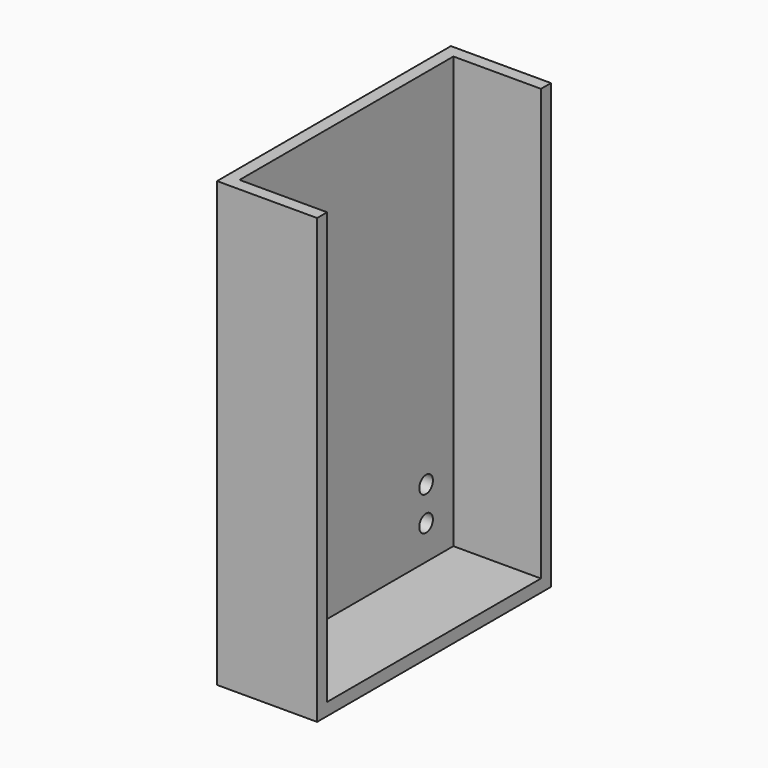
from build123d import *

# Parameters (mm, degrees)
CYLINDER026_R     = 1.5
CYLINDER026_DEPTH = 10
CYLINDER025_R     = 1.5
CYLINDER025_DEPTH = 10
CYLINDER024_R     = 1.5
CYLINDER024_DEPTH = 10
CYLINDER027_R     = 1.5
CYLINDER027_DEPTH = 10
BOX022_W          = 15.4
BOX022_H          = 47
BOX022_DEPTH      = 75.8
BOX021_W          = 17.6
BOX021_H          = 51.4
BOX021_DEPTH      = 78


with BuildPart() as obj1:
    # Cylinder026 → Cylinder026 (new body)
    with BuildSketch(Plane(origin=(50, 64.5, 56), x_dir=(0, 0, -1), z_dir=(1, 0, 0))):
        Circle(CYLINDER026_R)
    extrude(amount=CYLINDER026_DEPTH)


with BuildPart() as obj2:
    # Cylinder025 → Cylinder025 (new body)
    with BuildSketch(Plane(origin=(50, 29.5, 50), x_dir=(0, 0, -1), z_dir=(1, 0, 0))):
        Circle(CYLINDER025_R)
    extrude(amount=CYLINDER025_DEPTH)


with BuildPart() as obj3:
    # Cylinder024 → Cylinder024 (new body)
    with BuildSketch(Plane(origin=(50, 29.5, 56), x_dir=(0, 0, -1), z_dir=(1, 0, 0))):
        Circle(CYLINDER024_R)
    extrude(amount=CYLINDER024_DEPTH)


with BuildPart() as obj4:
    # Cylinder027 → Cylinder027 (new body)
    with BuildSketch(Plane(origin=(50, 64.5, 50), x_dir=(0, 0, -1), z_dir=(1, 0, 0))):
        Circle(CYLINDER027_R)
    extrude(amount=CYLINDER027_DEPTH)

    # Fusion015: union obj1, obj2, obj3
    add(obj1.part)
    add(obj2.part)
    add(obj3.part)


with BuildPart() as obj5:
    # Box022 → Box022 (new body)
    with BuildSketch(Plane(origin=(2.2, 2.2, 2.2), x_dir=(1, 0, 0), z_dir=(0, 0, 1))):
        with Locations((7.7, 23.5)):
            Rectangle(BOX022_W, BOX022_H)
    extrude(amount=BOX022_DEPTH)


with BuildPart() as obj6:
    # Box021 → Box021 (new body)
    with BuildSketch(Plane.XY):
        with Locations((8.8, 25.7)):
            Rectangle(BOX021_W, BOX021_H)
    extrude(amount=BOX021_DEPTH)

    # Cut022: cut obj5
    add(obj5.part, mode=Mode.SUBTRACT)


with BuildPart() as obj6_1:
    # Cut022 placement: moved
    add(obj6.part.moved(Location((50.2, 21.3, 41.8))))

    # Cut029: cut obj4
    add(obj4.part, mode=Mode.SUBTRACT)


solid = obj6_1.part
